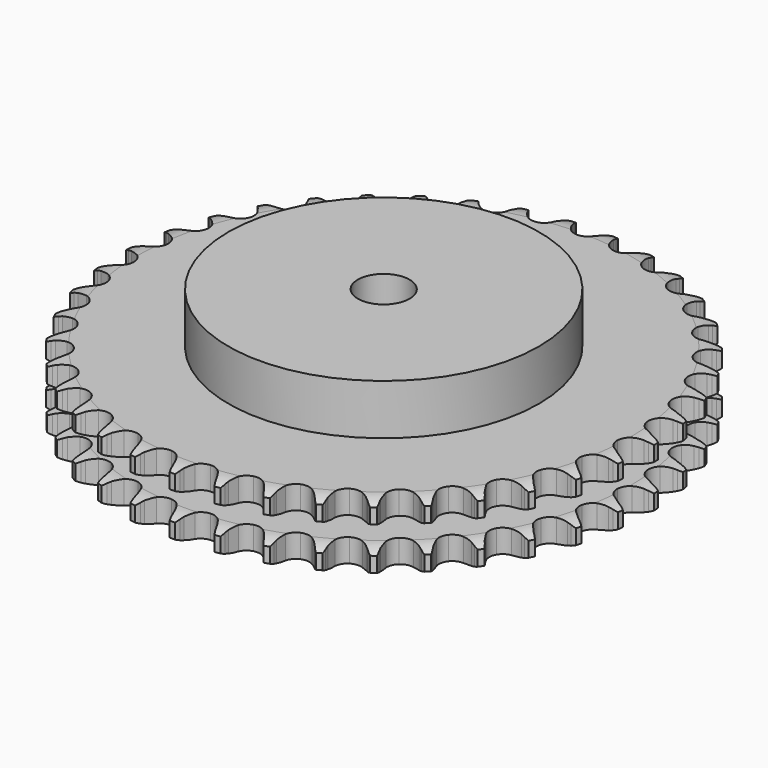
from build123d import *

# Parameters (mm, degrees)
PAD_DEPTH         = 25.5
SKETCH001_R       = 60
PAD001_DEPTH      = 45
SKETCH002_R       = 10
POCKET_DEPTH      = 0.001
POCKET_DEPTH_BACK = 45.001


with BuildPart() as part:
    # Sprocket → Pad (new body)
    with BuildSketch(Plane.XY):
        with BuildLine():
            ThreePointArc((-8.339812, 103.307115), (-7.225733, 101.913202), (-6.438066, 100.312033))
            Line((-6.438066, 100.312033), (-5.942659, 98.949016))
            ThreePointArc((-5.942659, 98.949016), (-5.159537, 97.199585), (-4.132583, 95.581205))
            ThreePointArc((-4.132583, 95.581205), (-2.31354, 94.049637), (0, 93.499951))
            ThreePointArc((0, 93.499951), (2.31354, 94.049637), (4.132583, 95.581205))
            ThreePointArc((4.132583, 95.581205), (5.159537, 97.199585), (5.942659, 98.949016))
            Line((5.942659, 98.949016), (6.438066, 100.312033))
            ThreePointArc((6.438066, 100.312033), (7.225733, 101.913202), (8.339812, 103.307115))
            ThreePointArc((8.339812, 103.307115), (9.215866, 101.752542), (9.736487, 100.045757))
            Line((9.736487, 100.045757), (10.006835, 98.620922))
            ThreePointArc((10.006835, 98.620922), (10.499188, 96.768524), (11.253236, 95.006366))
            ThreePointArc((11.253236, 95.006366), (12.803043, 93.202836), (14.998447, 92.289151))
            ThreePointArc((14.998447, 92.289151), (17.370203, 92.460601), (19.411371, 93.68054))
            Line((19.411371, 93.68054), (21.738242, 96.714383))
            ThreePointArc((21.738242, 96.714383), (22.074754, 97.357005), (22.445876, 97.98028))
            ThreePointArc((22.445876, 97.98028), (23.480189, 99.434364), (24.803441, 100.631515))
            ThreePointArc((24.803441, 100.631515), (25.418778, 98.956545), (25.65887, 97.188348))
            Line((25.65887, 97.188348), (25.697158, 95.738598))
            ThreePointArc((25.697158, 95.738598), (25.885989, 93.831209), (26.347603, 91.970913))
            ThreePointArc((26.347603, 91.970913), (27.588033, 89.942132), (29.608442, 88.688111))
            ThreePointArc((29.608442, 88.688111), (31.976986, 88.476884), (34.187414, 89.353599))
            Line((34.187414, 89.353599), (36.970815, 91.974898))
            ThreePointArc((36.970815, 91.974898), (37.406054, 92.555217), (37.87235, 93.110889))
            ThreePointArc((37.87235, 93.110889), (39.12652, 94.380228), (40.624673, 95.349611))
            ThreePointArc((40.624673, 95.349611), (40.963358, 93.597625), (40.916702, 91.813812))
            Line((40.916702, 91.813812), (40.721937, 90.376694))
            ThreePointArc((40.721937, 90.376694), (40.602357, 88.463715), (40.75958, 86.553461))
            ThreePointArc((40.75958, 86.553461), (41.658508, 84.351973), (43.451594, 82.790095))
            ThreePointArc((43.451594, 82.790095), (45.755583, 82.201662), (48.078021, 82.712447))
            Line((48.078021, 82.712447), (51.245864, 84.853311))
            ThreePointArc((51.245864, 84.853311), (51.768556, 85.356299), (52.31795, 85.829975))
            ThreePointArc((52.31795, 85.829975), (53.759496, 86.881694), (55.393747, 87.598203))
            ThreePointArc((55.393747, 87.598203), (55.447008, 85.814575), (55.114813, 84.061347))
            Line((55.114813, 84.061347), (54.69204, 82.674082))
            ThreePointArc((54.69204, 82.674082), (54.267144, 80.805057), (54.115906, 78.89432))
            ThreePointArc((54.115906, 78.89432), (54.650049, 76.577142), (56.169372, 74.747859))
            ThreePointArc((56.169372, 74.747859), (58.349134, 73.79746), (60.723433, 73.929085))
            Line((60.723433, 73.929085), (64.193672, 75.534069))
            ThreePointArc((64.193672, 75.534069), (64.79028, 75.946696), (65.408543, 76.32611))
            ThreePointArc((65.408543, 76.32611), (67.000128, 77.132969), (68.728153, 77.578047))
            ThreePointArc((68.728153, 77.578047), (68.49461, 75.808974), (67.885479, 74.131737))
            Line((67.885479, 74.131737), (67.245648, 72.830254))
            ThreePointArc((67.245648, 72.830254), (66.526442, 71.053591), (66.070658, 69.191857))
            ThreePointArc((66.070658, 69.191857), (66.226183, 66.819004), (67.432393, 64.769693))
            ThreePointArc((67.432393, 64.769693), (69.431473, 63.481943), (71.79614, 63.230999))
            Line((71.79614, 63.230999), (75.478897, 64.258533))
            ThreePointArc((75.478897, 64.258533), (76.13397, 64.570115), (76.805088, 64.845439))
            ThreePointArc((76.805088, 64.845439), (78.505492, 65.386541), (80.282535, 65.548661))
            ThreePointArc((80.282535, 65.548661), (79.768237, 63.839959), (78.897946, 62.282154))
            Line((78.897946, 62.282154), (78.057629, 61.10016))
            ThreePointArc((78.057629, 61.10016), (77.062739, 59.461873), (76.314215, 57.697362))
            ThreePointArc((76.314215, 57.697362), (76.087093, 55.330289), (76.948951, 53.114026))
            ThreePointArc((76.948951, 53.114026), (78.715574, 51.522277), (81.009364, 50.895264))
            Line((81.009364, 50.895264), (84.809259, 51.318735))
            ThreePointArc((84.809259, 51.318735), (85.50583, 51.521201), (86.212423, 51.685305))
            ThreePointArc((86.212423, 51.685305), (87.977606, 51.946636), (89.757642, 51.821599))
            ThreePointArc((89.757642, 51.821599), (88.975909, 50.217523), (87.866999, 48.819496))
            Line((87.866999, 48.819496), (86.847958, 47.787605))
            ThreePointArc((86.847958, 47.787605), (85.603152, 46.330125), (84.581273, 44.708535))
            ThreePointArc((84.581273, 44.708535), (83.977388, 42.408548), (84.472571, 40.082733))
            ThreePointArc((84.472571, 40.082733), (85.960982, 38.228211), (88.124489, 37.241368))
            Line((88.124489, 37.241368), (91.943106, 37.049809))
            ThreePointArc((91.943106, 37.049809), (92.663134, 37.137915), (93.386901, 37.186549))
            ThreePointArc((93.386901, 37.186549), (95.171145, 37.16134), (96.908073, 36.752384))
            ThreePointArc((96.908073, 36.752384), (95.879152, 35.29448), (94.560342, 34.092438))
            Line((94.560342, 34.092438), (93.388971, 33.237376))
            ThreePointArc((93.388971, 33.237376), (91.926489, 31.998451), (90.657722, 30.561781))
            ThreePointArc((90.657722, 30.561781), (89.692712, 28.388448), (89.808396, 26.013319))
            ThreePointArc((89.808396, 26.013319), (90.980047, 23.944055), (92.957235, 22.62294))
            Line((92.957235, 22.62294), (96.695674, 21.821313))
            ThreePointArc((96.695674, 21.821313), (97.420511, 21.792777), (98.142707, 21.724681))
            ThreePointArc((98.142707, 21.724681), (99.899802, 21.413585), (101.548636, 20.731302))
            ThreePointArc((101.548636, 20.731302), (100.299175, 19.457328), (98.804622, 18.482404))
            Line((98.804622, 18.482404), (97.511258, 17.826316))
            ThreePointArc((97.511258, 17.826316), (95.868977, 16.838033), (94.386182, 15.623493))
            ThreePointArc((94.386182, 15.623493), (93.085043, 13.633102), (92.818231, 11.270174))
            ThreePointArc((92.818231, 11.270174), (93.642775, 9.03976), (95.382438, 7.418589))
            Line((95.382438, 7.418589), (98.943875, 6.027656))
            ThreePointArc((98.943875, 6.027656), (99.654748, 5.883217), (100.356668, 5.700154))
            ThreePointArc((100.356668, 5.700154), (102.041106, 5.11123), (103.559143, 4.173291))
            ThreePointArc((103.559143, 4.173291), (102.121502, 3.116242), (100.489914, 2.393686))
            Line((100.489914, 2.393686), (99.108055, 1.953564))
            ThreePointArc((99.108055, 1.953564), (97.32851, 1.24152), (95.670091, 0.280564))
            ThreePointArc((95.670091, 0.280564), (94.066519, -1.475334), (93.424122, -3.764863))
            ThreePointArc((93.424122, -3.764863), (93.880205, -6.09866), (95.337286, -7.977899))
            Line((95.337286, -7.977899), (98.629482, -9.922115))
            ThreePointArc((98.629482, -9.922115), (99.30798, -10.178715), (99.971445, -10.472003))
            ThreePointArc((99.971445, -10.472003), (101.5396, -11.323504), (102.887522, -12.492807))
            ThreePointArc((102.887522, -12.492807), (101.298935, -13.305553), (99.572571, -13.757027))
            Line((99.572571, -13.757027), (98.138006, -13.969784))
            ThreePointArc((98.138006, -13.969784), (96.267285, -14.387148), (94.476194, -15.069631))
            ThreePointArc((94.476194, -15.069631), (92.611722, -16.545559), (91.610378, -18.702392))
            ThreePointArc((91.610378, -18.702392), (91.686187, -21.079128), (92.822948, -23.167763))
            Line((92.822948, -23.167763), (95.760637, -25.614907))
            ThreePointArc((95.760637, -25.614907), (96.389187, -25.977023), (96.997013, -26.372941))
            ThreePointArc((96.997013, -26.372941), (98.408271, -27.464965), (99.551168, -28.835348))
            ThreePointArc((99.551168, -28.835348), (97.85278, -29.382742), (96.07635, -29.551441))
            Line((96.07635, -29.551441), (94.626233, -29.531322))
            ThreePointArc((94.626233, -29.531322), (92.712788, -29.643197), (90.835413, -30.02953))
            ThreePointArc((90.835413, -30.02953), (88.75833, -31.187264), (87.423973, -33.155539))
            ThreePointArc((87.423973, -33.155539), (87.117545, -35.513658), (87.904545, -37.757595))
            Line((87.904545, -37.757595), (90.411642, -40.644288))
            ThreePointArc((90.411642, -40.644288), (90.973965, -41.10254), (91.51041, -41.590833))
            ThreePointArc((91.51041, -41.590833), (92.728219, -42.895097), (93.636492, -44.431068))
            ThreePointArc((93.636492, -44.431068), (91.872289, -44.698933), (90.091802, -44.580488))
            Line((90.091802, -44.580488), (88.663691, -44.328014))
            ThreePointArc((88.663691, -44.328014), (86.757079, -44.131503), (84.842043, -44.21168))
            ThreePointArc((84.842043, -44.21168), (82.606144, -45.021234), (80.973333, -46.749975))
            ThreePointArc((80.973333, -46.749975), (80.292605, -49.028402), (80.70946, -51.369524))
            Line((80.70946, -51.369524), (82.721032, -54.621002))
            ThreePointArc((82.721032, -54.621002), (83.202565, -55.163524), (83.653736, -55.731545))
            ThreePointArc((83.653736, -55.731545), (84.646556, -57.21427), (85.296679, -58.876047))
            ThreePointArc((85.296679, -58.876047), (83.512354, -58.857445), (81.773923, -58.454924))
            Line((81.773923, -58.454924), (80.404806, -57.976635))
            ThreePointArc((80.404806, -57.976635), (78.554406, -57.476825), (76.651309, -57.248772))
            ThreePointArc((76.651309, -57.248772), (74.314503, -57.689179), (72.425526, -59.133611))
            ThreePointArc((72.425526, -59.133611), (71.388128, -61.273337), (71.424042, -63.65101))
            Line((71.424042, -63.65101), (72.887992, -67.183061))
            ThreePointArc((72.887992, -67.183061), (73.276262, -67.7958), (73.630473, -68.428839))
            ThreePointArc((73.630473, -68.428839), (74.372591, -70.051622), (74.747728, -71.796167))
            ThreePointArc((74.747728, -71.796167), (72.989493, -71.49158), (71.338143, -70.815407))
            Line((71.338143, -70.815407), (70.063479, -70.12369))
            ThreePointArc((70.063479, -70.12369), (68.317216, -69.333528), (66.475345, -68.80315))
            ThreePointArc((66.475345, -68.80315), (64.098154, -68.863003), (62.001936, -69.985718))
            ThreePointArc((62.001936, -69.985718), (60.634736, -71.931324), (60.28878, -74.283969))
            Line((60.28878, -74.283969), (61.167191, -78.005114))
            ThreePointArc((61.167191, -78.005114), (61.452142, -78.672202), (61.70022, -79.353862))
            ThreePointArc((61.70022, -79.353862), (62.172415, -81.074675), (62.262849, -82.856804))
            ThreePointArc((62.262849, -82.856804), (60.576242, -82.274121), (59.054743, -81.341809))
            Line((59.054743, -81.341809), (57.907544, -80.454579))
            ThreePointArc((57.907544, -80.454579), (56.310646, -79.39453), (54.577706, -78.575562))
            ThreePointArc((54.577706, -78.575562), (52.221697, -78.253313), (49.972528, -79.025231))
            ThreePointArc((49.972528, -79.025231), (48.310936, -80.726328), (47.592069, -82.993011))
            Line((47.592069, -82.993011), (47.862191, -86.806876))
            ThreePointArc((47.862191, -86.806876), (48.036445, -87.511034), (48.171964, -88.223662))
            ThreePointArc((48.171964, -88.223662), (48.362006, -89.997936), (48.165396, -91.771494))
            ThreePointArc((48.165396, -91.771494), (46.594098, -90.925805), (45.241856, -89.761501))
            Line((45.241856, -89.761501), (44.251835, -88.701737))
            ThreePointArc((44.251835, -88.701737), (42.84566, -87.399254), (41.266532, -86.312909))
            ThreePointArc((41.266532, -86.312909), (38.992726, -85.616902), (36.648859, -86.018033))
            ThreePointArc((36.648859, -86.018033), (34.735908, -87.430563), (33.662749, -89.552578))
            Line((33.662749, -89.552578), (33.317586, -93.360385))
            ThreePointArc((33.317586, -93.360385), (33.376628, -94.083377), (33.396079, -94.808515))
            ThreePointArc((33.396079, -94.808515), (33.299047, -96.590297), (32.820483, -98.30935))
            ThreePointArc((32.820483, -98.30935), (31.405192, -97.222559), (30.257228, -95.856417))
            Line((30.257228, -95.856417), (29.450026, -94.651566))
            ThreePointArc((29.450026, -94.651566), (28.270993, -93.140384), (26.886577, -91.814797))
            ThreePointArc((26.886577, -91.814797), (24.753864, -90.763059), (22.376003, -90.783012))
            ThreePointArc((22.376003, -90.783012), (20.261239, -91.870391), (18.861582, -93.792781))
            Line((18.861582, -93.792781), (17.910073, -97.495909))
            ThreePointArc((17.910073, -97.495909), (17.852375, -98.21901), (17.755253, -98.937877))
            ThreePointArc((17.755253, -98.937877), (17.373659, -100.681021), (16.625538, -102.301045))
            ThreePointArc((16.625538, -102.301045), (15.402908, -101.001299), (14.488954, -99.468703))
            Line((14.488954, -99.468703), (13.885477, -98.14997))
            ThreePointArc((13.885477, -98.14997), (12.964123, -96.469227), (11.810274, -94.93873))
            ThreePointArc((11.810274, -94.93873), (9.873889, -93.5585), (7.52362, -93.196759))
            ThreePointArc((7.52362, -93.196759), (5.261814, -93.930825), (3.571909, -95.603799))
            Line((3.571909, -95.603799), (2.038699, -99.106341))
            ThreePointArc((2.038699, -99.106341), (1.865754, -99.810822), (1.654576, -100.504801))
            ThreePointArc((1.654576, -100.504801), (0.998304, -102.164159), (0, -103.643198))
            ThreePointArc((0, -103.643198), (-0.998304, -102.164159), (-1.654576, -100.504801))
            Line((-1.654576, -100.504801), (-2.038699, -99.106341))
            ThreePointArc((-2.038699, -99.106341), (-2.678511, -97.299567), (-3.571909, -95.603799))
            ThreePointArc((-3.571909, -95.603799), (-5.261814, -93.930825), (-7.52362, -93.196759))
            ThreePointArc((-7.52362, -93.196759), (-9.873889, -93.5585), (-11.810274, -94.93873))
            Line((-11.810274, -94.93873), (-13.885477, -98.14997))
            ThreePointArc((-13.885477, -98.14997), (-14.169189, -98.817586), (-14.488954, -99.468703))
            ThreePointArc((-14.488954, -99.468703), (-15.402908, -101.001299), (-16.625538, -102.301045))
            ThreePointArc((-16.625538, -102.301045), (-17.373659, -100.681021), (-17.755253, -98.937877))
            Line((-17.755253, -98.937877), (-17.910073, -97.495909))
            ThreePointArc((-17.910073, -97.495909), (-18.251773, -95.6099), (-18.861582, -93.792781))
            ThreePointArc((-18.861582, -93.792781), (-20.261239, -91.870391), (-22.376003, -90.783012))
            ThreePointArc((-22.376003, -90.783012), (-24.753864, -90.763059), (-26.886577, -91.814797))
            Line((-26.886577, -91.814797), (-29.450026, -94.651566))
            ThreePointArc((-29.450026, -94.651566), (-29.837157, -95.265026), (-30.257228, -95.856417))
            ThreePointArc((-30.257228, -95.856417), (-31.405192, -97.222559), (-32.820483, -98.30935))
            ThreePointArc((-32.820483, -98.30935), (-33.299047, -96.590297), (-33.396079, -94.808515))
            Line((-33.396079, -94.808515), (-33.317586, -93.360385))
            ThreePointArc((-33.317586, -93.360385), (-33.352324, -91.443987), (-33.662749, -89.552578))
            ThreePointArc((-33.662749, -89.552578), (-34.735908, -87.430563), (-36.648859, -86.018033))
            ThreePointArc((-36.648859, -86.018033), (-38.992726, -85.616902), (-41.266532, -86.312909))
            Line((-41.266532, -86.312909), (-44.251835, -88.701737))
            ThreePointArc((-44.251835, -88.701737), (-44.732358, -89.245152), (-45.241856, -89.761501))
            ThreePointArc((-45.241856, -89.761501), (-46.594098, -90.925805), (-48.165396, -91.771494))
            ThreePointArc((-48.165396, -91.771494), (-48.362006, -89.997936), (-48.171964, -88.223662))
            Line((-48.171964, -88.223662), (-47.862191, -86.806876))
            ThreePointArc((-47.862191, -86.806876), (-47.589067, -84.909722), (-47.592069, -82.993011))
            ThreePointArc((-47.592069, -82.993011), (-48.310936, -80.726328), (-49.972528, -79.025231))
            ThreePointArc((-49.972528, -79.025231), (-52.221697, -78.253313), (-54.577706, -78.575562))
            Line((-54.577706, -78.575562), (-57.907544, -80.454579))
            ThreePointArc((-57.907544, -80.454579), (-58.469015, -80.913876), (-59.054743, -81.341809))
            ThreePointArc((-59.054743, -81.341809), (-60.576242, -82.274121), (-62.262849, -82.856804))
            ThreePointArc((-62.262849, -82.856804), (-62.172415, -81.074675), (-61.70022, -79.353862))
            Line((-61.70022, -79.353862), (-61.167191, -78.005114))
            ThreePointArc((-61.167191, -78.005114), (-60.593279, -76.17634), (-60.28878, -74.283969))
            ThreePointArc((-60.28878, -74.283969), (-60.634736, -71.931324), (-62.001936, -69.985718))
            ThreePointArc((-62.001936, -69.985718), (-64.098154, -68.863003), (-66.475345, -68.80315))
            Line((-66.475345, -68.80315), (-70.063479, -70.12369))
            ThreePointArc((-70.063479, -70.12369), (-70.691356, -70.486973), (-71.338143, -70.815407))
            ThreePointArc((-71.338143, -70.815407), (-72.989493, -71.49158), (-74.747728, -71.796167))
            ThreePointArc((-74.747728, -71.796167), (-74.372591, -70.051622), (-73.630473, -68.428839))
            Line((-73.630473, -68.428839), (-72.887992, -67.183061))
            ThreePointArc((-72.887992, -67.183061), (-72.028156, -65.470031), (-71.424042, -63.65101))
            ThreePointArc((-71.424042, -63.65101), (-71.388128, -61.273337), (-72.425526, -59.133611))
            ThreePointArc((-72.425526, -59.133611), (-74.314503, -57.689179), (-76.651309, -57.248772))
            Line((-76.651309, -57.248772), (-80.404806, -57.976635))
            ThreePointArc((-80.404806, -57.976635), (-81.082827, -58.234494), (-81.773923, -58.454924))
            ThreePointArc((-81.773923, -58.454924), (-83.512354, -58.857445), (-85.296679, -58.876047))
            ThreePointArc((-85.296679, -58.876047), (-84.646556, -57.21427), (-83.653736, -55.731545))
            Line((-83.653736, -55.731545), (-82.721032, -54.621002))
            ThreePointArc((-82.721032, -54.621002), (-81.597542, -53.068083), (-80.70946, -51.369524))
            ThreePointArc((-80.70946, -51.369524), (-80.292605, -49.028402), (-80.973333, -46.749975))
            ThreePointArc((-80.973333, -46.749975), (-82.606144, -45.021234), (-84.842043, -44.21168))
            Line((-84.842043, -44.21168), (-88.663691, -44.328014))
            ThreePointArc((-88.663691, -44.328014), (-89.374295, -44.473773), (-90.091802, -44.580488))
            ThreePointArc((-90.091802, -44.580488), (-91.872289, -44.698933), (-93.636492, -44.431068))
            ThreePointArc((-93.636492, -44.431068), (-92.728219, -42.895097), (-91.51041, -41.590833))
            Line((-91.51041, -41.590833), (-90.411642, -40.644288))
            ThreePointArc((-90.411642, -40.644288), (-89.053594, -39.291699), (-87.904545, -37.757595))
            ThreePointArc((-87.904545, -37.757595), (-87.117545, -35.513658), (-87.423973, -33.155539))
            ThreePointArc((-87.423973, -33.155539), (-88.75833, -31.187264), (-90.835413, -30.02953))
            Line((-90.835413, -30.02953), (-94.626233, -29.531322))
            ThreePointArc((-94.626233, -29.531322), (-95.351016, -29.561204), (-96.07635, -29.551441))
            ThreePointArc((-96.07635, -29.551441), (-97.85278, -29.382742), (-99.551168, -28.835348))
            ThreePointArc((-99.551168, -28.835348), (-98.408271, -27.464965), (-96.997013, -26.372941))
            Line((-96.997013, -26.372941), (-95.760637, -25.614907))
            ThreePointArc((-95.760637, -25.614907), (-94.203205, -24.497681), (-92.822948, -23.167763))
            ThreePointArc((-92.822948, -23.167763), (-91.686187, -21.079128), (-91.610378, -18.702392))
            ThreePointArc((-91.610378, -18.702392), (-92.611722, -16.545559), (-94.476194, -15.069631))
            Line((-94.476194, -15.069631), (-98.138006, -13.969784))
            ThreePointArc((-98.138006, -13.969784), (-98.858196, -13.883016), (-99.572571, -13.757027))
            ThreePointArc((-99.572571, -13.757027), (-101.298935, -13.305553), (-102.887522, -12.492807))
            ThreePointArc((-102.887522, -12.492807), (-101.5396, -11.323504), (-99.971445, -10.472003))
            Line((-99.971445, -10.472003), (-98.629482, -9.922115))
            ThreePointArc((-98.629482, -9.922115), (-96.913003, -9.069185), (-95.337286, -7.977899))
            ThreePointArc((-95.337286, -7.977899), (-93.880205, -6.09866), (-93.424122, -3.764863))
            ThreePointArc((-93.424122, -3.764863), (-94.066519, -1.475334), (-95.670091, 0.280564))
            Line((-95.670091, 0.280564), (-99.108055, 1.953564))
            ThreePointArc((-99.108055, 1.953564), (-99.805001, 2.154736), (-100.489914, 2.393686))
            ThreePointArc((-100.489914, 2.393686), (-102.121502, 3.116242), (-103.559143, 4.173291))
            ThreePointArc((-103.559143, 4.173291), (-102.041106, 5.11123), (-100.356668, 5.700154))
            Line((-100.356668, 5.700154), (-98.943875, 6.027656))
            ThreePointArc((-98.943875, 6.027656), (-97.112804, 6.594197), (-95.382438, 7.418589))
            ThreePointArc((-95.382438, 7.418589), (-93.642775, 9.03976), (-92.818231, 11.270174))
            ThreePointArc((-92.818231, 11.270174), (-93.085043, 13.633102), (-94.386182, 15.623493))
            Line((-94.386182, 15.623493), (-97.511258, 17.826316))
            ThreePointArc((-97.511258, 17.826316), (-98.166909, 18.136681), (-98.804622, 18.482404))
            ThreePointArc((-98.804622, 18.482404), (-100.299175, 19.457328), (-101.548636, 20.731302))
            ThreePointArc((-101.548636, 20.731302), (-99.899802, 21.413585), (-98.142707, 21.724681))
            Line((-98.142707, 21.724681), (-96.695674, 21.821313))
            ThreePointArc((-96.695674, 21.821313), (-94.797435, 22.086793), (-92.957235, 22.62294))
            ThreePointArc((-92.957235, 22.62294), (-90.980047, 23.944055), (-89.808396, 26.013319))
            ThreePointArc((-89.808396, 26.013319), (-89.692712, 28.388448), (-90.657722, 30.561781))
            Line((-90.657722, 30.561781), (-93.388971, 33.237376))
            ThreePointArc((-93.388971, 33.237376), (-93.986345, 33.648895), (-94.560342, 34.092438))
            ThreePointArc((-94.560342, 34.092438), (-95.879152, 35.29448), (-96.908073, 36.752384))
            ThreePointArc((-96.908073, 36.752384), (-95.171145, 37.16134), (-93.386901, 37.186549))
            Line((-93.386901, 37.186549), (-91.943106, 37.049809))
            ThreePointArc((-91.943106, 37.049809), (-90.026863, 37.007353), (-88.124489, 37.241368))
            ThreePointArc((-88.124489, 37.241368), (-85.960982, 38.228211), (-84.472571, 40.082733))
            ThreePointArc((-84.472571, 40.082733), (-83.977388, 42.408548), (-84.581273, 44.708535))
            Line((-84.581273, 44.708535), (-86.847958, 47.787605))
            ThreePointArc((-86.847958, 47.787605), (-87.371584, 48.28962), (-87.866999, 48.819496))
            ThreePointArc((-87.866999, 48.819496), (-88.975909, 50.217523), (-89.757642, 51.821599))
            ThreePointArc((-89.757642, 51.821599), (-87.977606, 51.946636), (-86.212423, 51.685305))
            Line((-86.212423, 51.685305), (-84.809259, 51.318735))
            ThreePointArc((-84.809259, 51.318735), (-82.924641, 50.969442), (-81.009364, 50.895264))
            ThreePointArc((-81.009364, 50.895264), (-78.715574, 51.522277), (-76.948951, 53.114026))
            ThreePointArc((-76.948951, 53.114026), (-76.087093, 55.330289), (-76.314215, 57.697362))
            Line((-76.314215, 57.697362), (-78.057629, 61.10016))
            ThreePointArc((-78.057629, 61.10016), (-78.493945, 61.67967), (-78.897946, 62.282154))
            ThreePointArc((-78.897946, 62.282154), (-79.768237, 63.839959), (-80.282535, 65.548661))
            ThreePointArc((-80.282535, 65.548661), (-78.505492, 65.386541), (-76.805088, 64.845439))
            Line((-76.805088, 64.845439), (-75.478897, 64.258533))
            ThreePointArc((-75.478897, 64.258533), (-73.674716, 63.611449), (-71.79614, 63.230999))
            ThreePointArc((-71.79614, 63.230999), (-69.431473, 63.481943), (-67.432393, 64.769693))
            ThreePointArc((-67.432393, 64.769693), (-66.226183, 66.819004), (-66.070658, 69.191857))
            Line((-66.070658, 69.191857), (-67.245648, 72.830254))
            ThreePointArc((-67.245648, 72.830254), (-67.583354, 73.472249), (-67.885479, 74.131737))
            ThreePointArc((-67.885479, 74.131737), (-68.49461, 75.808974), (-68.728153, 77.578047))
            ThreePointArc((-68.728153, 77.578047), (-67.000128, 77.132969), (-65.408543, 76.32611))
            Line((-65.408543, 76.32611), (-64.193672, 75.534069))
            ThreePointArc((-64.193672, 75.534069), (-62.516653, 74.605953), (-60.723433, 73.929085))
            ThreePointArc((-60.723433, 73.929085), (-58.349134, 73.79746), (-56.169372, 74.747859))
            ThreePointArc((-56.169372, 74.747859), (-54.650049, 76.577142), (-54.115906, 78.89432))
            Line((-54.115906, 78.89432), (-54.69204, 82.674082))
            ThreePointArc((-54.69204, 82.674082), (-54.92239, 83.361935), (-55.114813, 84.061347))
            ThreePointArc((-55.114813, 84.061347), (-55.447008, 85.814575), (-55.393747, 87.598203))
            ThreePointArc((-55.393747, 87.598203), (-53.759496, 86.881694), (-52.31795, 85.829975))
            Line((-52.31795, 85.829975), (-51.245864, 84.853311))
            ThreePointArc((-51.245864, 84.853311), (-49.739443, 83.668202), (-48.078021, 82.712447))
            ThreePointArc((-48.078021, 82.712447), (-45.755583, 82.201662), (-43.451594, 82.790095))
            ThreePointArc((-43.451594, 82.790095), (-41.658508, 84.351973), (-40.75958, 86.553461))
            Line((-40.75958, 86.553461), (-40.721937, 90.376694))
            ThreePointArc((-40.721937, 90.376694), (-40.838965, 91.092591), (-40.916702, 91.813812))
            ThreePointArc((-40.916702, 91.813812), (-40.963358, 93.597625), (-40.624673, 95.349611))
            ThreePointArc((-40.624673, 95.349611), (-39.12652, 94.380228), (-37.87235, 93.110889))
            Line((-37.87235, 93.110889), (-36.970815, 91.974898))
            ThreePointArc((-36.970815, 91.974898), (-35.674006, 90.563489), (-34.187414, 89.353599))
            ThreePointArc((-34.187414, 89.353599), (-31.976986, 88.476884), (-29.608442, 88.688111))
            ThreePointArc((-29.608442, 88.688111), (-27.588033, 89.942132), (-26.347603, 91.970913))
            Line((-26.347603, 91.970913), (-25.697158, 95.738598))
            ThreePointArc((-25.697158, 95.738598), (-25.697832, 96.463996), (-25.65887, 97.188348))
            ThreePointArc((-25.65887, 97.188348), (-25.418778, 98.956545), (-24.803441, 100.631515))
            ThreePointArc((-24.803441, 100.631515), (-23.480189, 99.434364), (-22.445876, 97.98028))
            Line((-22.445876, 97.98028), (-21.738242, 96.714383))
            ThreePointArc((-21.738242, 96.714383), (-20.684632, 95.113228), (-19.411371, 93.68054))
            ThreePointArc((-19.411371, 93.68054), (-17.370203, 92.460601), (-14.998447, 92.289151))
            ThreePointArc((-14.998447, 92.289151), (-12.803043, 93.202836), (-11.253236, 95.006366))
            Line((-11.253236, 95.006366), (-10.006835, 98.620922))
            ThreePointArc((-10.006835, 98.620922), (-9.891138, 99.337035), (-9.736487, 100.045757))
            ThreePointArc((-9.736487, 100.045757), (-9.215866, 101.752542), (-8.339812, 103.307115))
        make_face()
    extrude(amount=PAD_DEPTH)

    # Sketch → Groove (revolve, cut)
    with BuildSketch(Plane.XZ):
        with BuildLine():
            ThreePointArc((95.125762, 0), (98.70347, 0.405129), (102.1, 1.6))
            Line((102.1, 1.6), (102.1, 7.4))
            ThreePointArc((102.1, 7.4), (98.70347, 8.594871), (95.125762, 9))
            Line((60, 9), (95.125762, 9))
            Line((60, 16.5), (60, 9))
            Line((95.125762, 16.5), (60, 16.5))
            ThreePointArc((95.125762, 16.5), (98.70347, 16.905129), (102.1, 18.1))
            Line((102.1, 18.1), (102.1, 23.9))
            ThreePointArc((102.1, 23.9), (98.70347, 25.094871), (95.125762, 25.5))
            Line((95.125762, 25.5), (105.125762, 25.5))
            Line((105.125762, 25.5), (105.125762, 0))
            Line((95.125762, 0), (105.125762, 0))
        make_face()
    revolve(axis=Axis((0, 0, 0), (0, 0, 1)), mode=Mode.SUBTRACT)

    # Sketch001 → Pad001 (join)
    with BuildSketch(Plane.XY):
        Circle(SKETCH001_R)
    extrude(amount=PAD001_DEPTH)

    # Sketch002 → Pocket (cut, two sides)
    with BuildSketch(Plane.XY) as pocket_sk:
        Circle(SKETCH002_R)
    extrude(amount=-POCKET_DEPTH, mode=Mode.SUBTRACT)
    extrude(pocket_sk.sketch, amount=POCKET_DEPTH_BACK, mode=Mode.SUBTRACT)


solid = part.part
